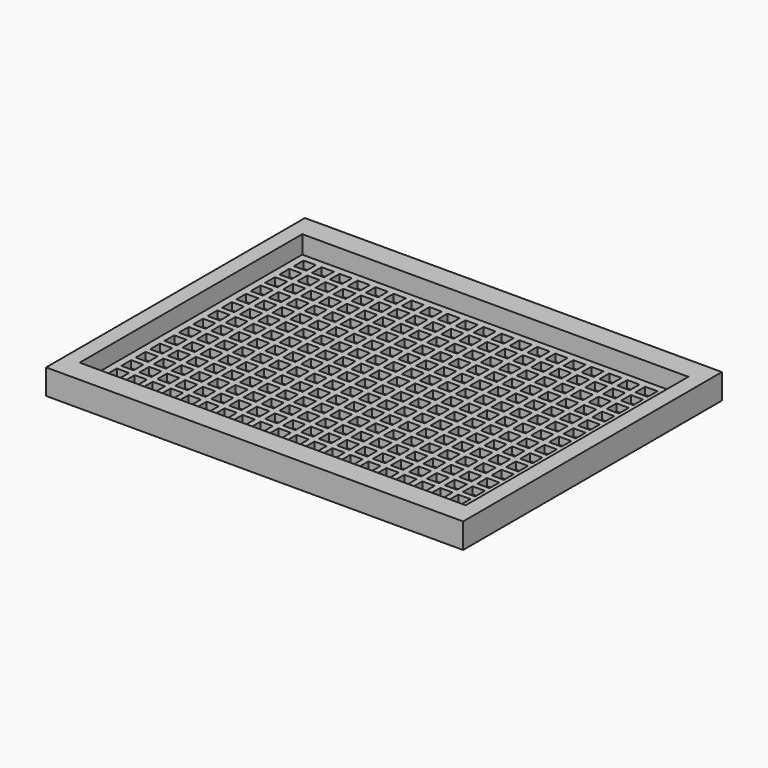
from build123d import *

# Parameters (mm, degrees)
F0_W     = 116
F0_H     = 90
F0_W_2   = 3.4
F0_H_2   = 3.4
F1_DEPTH = 2
F2_W     = 116
F2_H     = 90
F2_W_2   = 107.4
F2_H_2   = 77.4
F3_DEPTH = 5


with BuildPart() as f1:
    # F0 (on Top) → F1 (new body)
    with BuildSketch(Plane.XY):
        Rectangle(F0_W, F0_H)
        with Locations((-50, -35)):
            Rectangle(F0_W_2, F0_H_2, mode=Mode.SUBTRACT)
        with Locations((-45, -35)):
            Rectangle(F0_W_2, F0_H_2, mode=Mode.SUBTRACT)
        with Locations((-40, -35)):
            Rectangle(F0_W_2, F0_H_2, mode=Mode.SUBTRACT)
        with Locations((-35, -35)):
            Rectangle(F0_W_2, F0_H_2, mode=Mode.SUBTRACT)
        with Locations((-30, -35)):
            Rectangle(F0_W_2, F0_H_2, mode=Mode.SUBTRACT)
        with Locations((-50, -30)):
            Rectangle(F0_W_2, F0_H_2, mode=Mode.SUBTRACT)
        with Locations((-45, -30)):
            Rectangle(F0_W_2, F0_H_2, mode=Mode.SUBTRACT)
        with Locations((-50, -25)):
            Rectangle(F0_W_2, F0_H_2, mode=Mode.SUBTRACT)
        with Locations((-45, -25)):
            Rectangle(F0_W_2, F0_H_2, mode=Mode.SUBTRACT)
        with Locations((-40, -30)):
            Rectangle(F0_W_2, F0_H_2, mode=Mode.SUBTRACT)
        with Locations((-35, -30)):
            Rectangle(F0_W_2, F0_H_2, mode=Mode.SUBTRACT)
        with Locations((-30, -30)):
            Rectangle(F0_W_2, F0_H_2, mode=Mode.SUBTRACT)
        with Locations((-40, -25)):
            Rectangle(F0_W_2, F0_H_2, mode=Mode.SUBTRACT)
        with Locations((-35, -25)):
            Rectangle(F0_W_2, F0_H_2, mode=Mode.SUBTRACT)
        with Locations((-30, -25)):
            Rectangle(F0_W_2, F0_H_2, mode=Mode.SUBTRACT)
        with Locations((-25, -35)):
            Rectangle(F0_W_2, F0_H_2, mode=Mode.SUBTRACT)
        with Locations((-20, -35)):
            Rectangle(F0_W_2, F0_H_2, mode=Mode.SUBTRACT)
        with Locations((-15, -35)):
            Rectangle(F0_W_2, F0_H_2, mode=Mode.SUBTRACT)
        with Locations((-10, -35)):
            Rectangle(F0_W_2, F0_H_2, mode=Mode.SUBTRACT)
        with Locations((-5, -35)):
            Rectangle(F0_W_2, F0_H_2, mode=Mode.SUBTRACT)
        with Locations((-25, -30)):
            Rectangle(F0_W_2, F0_H_2, mode=Mode.SUBTRACT)
        with Locations((-20, -30)):
            Rectangle(F0_W_2, F0_H_2, mode=Mode.SUBTRACT)
        with Locations((-15, -30)):
            Rectangle(F0_W_2, F0_H_2, mode=Mode.SUBTRACT)
        with Locations((-25, -25)):
            Rectangle(F0_W_2, F0_H_2, mode=Mode.SUBTRACT)
        with Locations((-20, -25)):
            Rectangle(F0_W_2, F0_H_2, mode=Mode.SUBTRACT)
        with Locations((-15, -25)):
            Rectangle(F0_W_2, F0_H_2, mode=Mode.SUBTRACT)
        with Locations((-10, -30)):
            Rectangle(F0_W_2, F0_H_2, mode=Mode.SUBTRACT)
        with Locations((-5, -30)):
            Rectangle(F0_W_2, F0_H_2, mode=Mode.SUBTRACT)
        with Locations((-10, -25)):
            Rectangle(F0_W_2, F0_H_2, mode=Mode.SUBTRACT)
        with Locations((-5, -25)):
            Rectangle(F0_W_2, F0_H_2, mode=Mode.SUBTRACT)
        with Locations((-50, -20)):
            Rectangle(F0_W_2, F0_H_2, mode=Mode.SUBTRACT)
        with Locations((-45, -20)):
            Rectangle(F0_W_2, F0_H_2, mode=Mode.SUBTRACT)
        with Locations((-50, -15)):
            Rectangle(F0_W_2, F0_H_2, mode=Mode.SUBTRACT)
        with Locations((-45, -15)):
            Rectangle(F0_W_2, F0_H_2, mode=Mode.SUBTRACT)
        with Locations((-40, -20)):
            Rectangle(F0_W_2, F0_H_2, mode=Mode.SUBTRACT)
        with Locations((-35, -20)):
            Rectangle(F0_W_2, F0_H_2, mode=Mode.SUBTRACT)
        with Locations((-30, -20)):
            Rectangle(F0_W_2, F0_H_2, mode=Mode.SUBTRACT)
        with Locations((-40, -15)):
            Rectangle(F0_W_2, F0_H_2, mode=Mode.SUBTRACT)
        with Locations((-35, -15)):
            Rectangle(F0_W_2, F0_H_2, mode=Mode.SUBTRACT)
        with Locations((-30, -15)):
            Rectangle(F0_W_2, F0_H_2, mode=Mode.SUBTRACT)
        with Locations((-50, -10)):
            Rectangle(F0_W_2, F0_H_2, mode=Mode.SUBTRACT)
        with Locations((-45, -10)):
            Rectangle(F0_W_2, F0_H_2, mode=Mode.SUBTRACT)
        with Locations((-50, -5)):
            Rectangle(F0_W_2, F0_H_2, mode=Mode.SUBTRACT)
        with Locations((-45, -5)):
            Rectangle(F0_W_2, F0_H_2, mode=Mode.SUBTRACT)
        with Locations((-40, -10)):
            Rectangle(F0_W_2, F0_H_2, mode=Mode.SUBTRACT)
        with Locations((-35, -10)):
            Rectangle(F0_W_2, F0_H_2, mode=Mode.SUBTRACT)
        with Locations((-30, -10)):
            Rectangle(F0_W_2, F0_H_2, mode=Mode.SUBTRACT)
        with Locations((-40, -5)):
            Rectangle(F0_W_2, F0_H_2, mode=Mode.SUBTRACT)
        with Locations((-35, -5)):
            Rectangle(F0_W_2, F0_H_2, mode=Mode.SUBTRACT)
        with Locations((-30, -5)):
            Rectangle(F0_W_2, F0_H_2, mode=Mode.SUBTRACT)
        with Locations((-25, -20)):
            Rectangle(F0_W_2, F0_H_2, mode=Mode.SUBTRACT)
        with Locations((-20, -20)):
            Rectangle(F0_W_2, F0_H_2, mode=Mode.SUBTRACT)
        with Locations((-15, -20)):
            Rectangle(F0_W_2, F0_H_2, mode=Mode.SUBTRACT)
        with Locations((-25, -15)):
            Rectangle(F0_W_2, F0_H_2, mode=Mode.SUBTRACT)
        with Locations((-20, -15)):
            Rectangle(F0_W_2, F0_H_2, mode=Mode.SUBTRACT)
        with Locations((-15, -15)):
            Rectangle(F0_W_2, F0_H_2, mode=Mode.SUBTRACT)
        with Locations((-10, -20)):
            Rectangle(F0_W_2, F0_H_2, mode=Mode.SUBTRACT)
        with Locations((-5, -20)):
            Rectangle(F0_W_2, F0_H_2, mode=Mode.SUBTRACT)
        with Locations((-10, -15)):
            Rectangle(F0_W_2, F0_H_2, mode=Mode.SUBTRACT)
        with Locations((-5, -15)):
            Rectangle(F0_W_2, F0_H_2, mode=Mode.SUBTRACT)
        with Locations((-25, -10)):
            Rectangle(F0_W_2, F0_H_2, mode=Mode.SUBTRACT)
        with Locations((-20, -10)):
            Rectangle(F0_W_2, F0_H_2, mode=Mode.SUBTRACT)
        with Locations((-15, -10)):
            Rectangle(F0_W_2, F0_H_2, mode=Mode.SUBTRACT)
        with Locations((-25, -5)):
            Rectangle(F0_W_2, F0_H_2, mode=Mode.SUBTRACT)
        with Locations((-20, -5)):
            Rectangle(F0_W_2, F0_H_2, mode=Mode.SUBTRACT)
        with Locations((-15, -5)):
            Rectangle(F0_W_2, F0_H_2, mode=Mode.SUBTRACT)
        with Locations((-10, -10)):
            Rectangle(F0_W_2, F0_H_2, mode=Mode.SUBTRACT)
        with Locations((-5, -10)):
            Rectangle(F0_W_2, F0_H_2, mode=Mode.SUBTRACT)
        with Locations((-10, -5)):
            Rectangle(F0_W_2, F0_H_2, mode=Mode.SUBTRACT)
        with Locations((-5, -5)):
            Rectangle(F0_W_2, F0_H_2, mode=Mode.SUBTRACT)
        with Locations((0, -35)):
            Rectangle(F0_W_2, F0_H_2, mode=Mode.SUBTRACT)
        with Locations((5, -35)):
            Rectangle(F0_W_2, F0_H_2, mode=Mode.SUBTRACT)
        with Locations((10, -35)):
            Rectangle(F0_W_2, F0_H_2, mode=Mode.SUBTRACT)
        with Locations((15, -35)):
            Rectangle(F0_W_2, F0_H_2, mode=Mode.SUBTRACT)
        with Locations((20, -35)):
            Rectangle(F0_W_2, F0_H_2, mode=Mode.SUBTRACT)
        with Locations((25, -35)):
            Rectangle(F0_W_2, F0_H_2, mode=Mode.SUBTRACT)
        with Locations((0, -30)):
            Rectangle(F0_W_2, F0_H_2, mode=Mode.SUBTRACT)
        with Locations((5, -30)):
            Rectangle(F0_W_2, F0_H_2, mode=Mode.SUBTRACT)
        with Locations((10, -30)):
            Rectangle(F0_W_2, F0_H_2, mode=Mode.SUBTRACT)
        with Locations((0, -25)):
            Rectangle(F0_W_2, F0_H_2, mode=Mode.SUBTRACT)
        with Locations((5, -25)):
            Rectangle(F0_W_2, F0_H_2, mode=Mode.SUBTRACT)
        with Locations((10, -25)):
            Rectangle(F0_W_2, F0_H_2, mode=Mode.SUBTRACT)
        with Locations((15, -30)):
            Rectangle(F0_W_2, F0_H_2, mode=Mode.SUBTRACT)
        with Locations((20, -30)):
            Rectangle(F0_W_2, F0_H_2, mode=Mode.SUBTRACT)
        with Locations((25, -30)):
            Rectangle(F0_W_2, F0_H_2, mode=Mode.SUBTRACT)
        with Locations((15, -25)):
            Rectangle(F0_W_2, F0_H_2, mode=Mode.SUBTRACT)
        with Locations((20, -25)):
            Rectangle(F0_W_2, F0_H_2, mode=Mode.SUBTRACT)
        with Locations((25, -25)):
            Rectangle(F0_W_2, F0_H_2, mode=Mode.SUBTRACT)
        with Locations((30, -35)):
            Rectangle(F0_W_2, F0_H_2, mode=Mode.SUBTRACT)
        with Locations((35, -35)):
            Rectangle(F0_W_2, F0_H_2, mode=Mode.SUBTRACT)
        with Locations((40, -35)):
            Rectangle(F0_W_2, F0_H_2, mode=Mode.SUBTRACT)
        with Locations((45, -35)):
            Rectangle(F0_W_2, F0_H_2, mode=Mode.SUBTRACT)
        with Locations((50, -35)):
            Rectangle(F0_W_2, F0_H_2, mode=Mode.SUBTRACT)
        with Locations((30, -30)):
            Rectangle(F0_W_2, F0_H_2, mode=Mode.SUBTRACT)
        with Locations((35, -30)):
            Rectangle(F0_W_2, F0_H_2, mode=Mode.SUBTRACT)
        with Locations((40, -30)):
            Rectangle(F0_W_2, F0_H_2, mode=Mode.SUBTRACT)
        with Locations((30, -25)):
            Rectangle(F0_W_2, F0_H_2, mode=Mode.SUBTRACT)
        with Locations((35, -25)):
            Rectangle(F0_W_2, F0_H_2, mode=Mode.SUBTRACT)
        with Locations((40, -25)):
            Rectangle(F0_W_2, F0_H_2, mode=Mode.SUBTRACT)
        with Locations((45, -30)):
            Rectangle(F0_W_2, F0_H_2, mode=Mode.SUBTRACT)
        with Locations((50, -30)):
            Rectangle(F0_W_2, F0_H_2, mode=Mode.SUBTRACT)
        with Locations((45, -25)):
            Rectangle(F0_W_2, F0_H_2, mode=Mode.SUBTRACT)
        with Locations((50, -25)):
            Rectangle(F0_W_2, F0_H_2, mode=Mode.SUBTRACT)
        with Locations((0, -20)):
            Rectangle(F0_W_2, F0_H_2, mode=Mode.SUBTRACT)
        with Locations((5, -20)):
            Rectangle(F0_W_2, F0_H_2, mode=Mode.SUBTRACT)
        with Locations((10, -20)):
            Rectangle(F0_W_2, F0_H_2, mode=Mode.SUBTRACT)
        with Locations((0, -15)):
            Rectangle(F0_W_2, F0_H_2, mode=Mode.SUBTRACT)
        with Locations((5, -15)):
            Rectangle(F0_W_2, F0_H_2, mode=Mode.SUBTRACT)
        with Locations((10, -15)):
            Rectangle(F0_W_2, F0_H_2, mode=Mode.SUBTRACT)
        with Locations((15, -20)):
            Rectangle(F0_W_2, F0_H_2, mode=Mode.SUBTRACT)
        with Locations((20, -20)):
            Rectangle(F0_W_2, F0_H_2, mode=Mode.SUBTRACT)
        with Locations((25, -20)):
            Rectangle(F0_W_2, F0_H_2, mode=Mode.SUBTRACT)
        with Locations((15, -15)):
            Rectangle(F0_W_2, F0_H_2, mode=Mode.SUBTRACT)
        with Locations((20, -15)):
            Rectangle(F0_W_2, F0_H_2, mode=Mode.SUBTRACT)
        with Locations((25, -15)):
            Rectangle(F0_W_2, F0_H_2, mode=Mode.SUBTRACT)
        with Locations((0, -10)):
            Rectangle(F0_W_2, F0_H_2, mode=Mode.SUBTRACT)
        with Locations((5, -10)):
            Rectangle(F0_W_2, F0_H_2, mode=Mode.SUBTRACT)
        with Locations((10, -10)):
            Rectangle(F0_W_2, F0_H_2, mode=Mode.SUBTRACT)
        with Locations((0, -5)):
            Rectangle(F0_W_2, F0_H_2, mode=Mode.SUBTRACT)
        with Locations((5, -5)):
            Rectangle(F0_W_2, F0_H_2, mode=Mode.SUBTRACT)
        with Locations((10, -5)):
            Rectangle(F0_W_2, F0_H_2, mode=Mode.SUBTRACT)
        with Locations((15, -10)):
            Rectangle(F0_W_2, F0_H_2, mode=Mode.SUBTRACT)
        with Locations((20, -10)):
            Rectangle(F0_W_2, F0_H_2, mode=Mode.SUBTRACT)
        with Locations((25, -10)):
            Rectangle(F0_W_2, F0_H_2, mode=Mode.SUBTRACT)
        with Locations((15, -5)):
            Rectangle(F0_W_2, F0_H_2, mode=Mode.SUBTRACT)
        with Locations((20, -5)):
            Rectangle(F0_W_2, F0_H_2, mode=Mode.SUBTRACT)
        with Locations((25, -5)):
            Rectangle(F0_W_2, F0_H_2, mode=Mode.SUBTRACT)
        with Locations((30, -20)):
            Rectangle(F0_W_2, F0_H_2, mode=Mode.SUBTRACT)
        with Locations((35, -20)):
            Rectangle(F0_W_2, F0_H_2, mode=Mode.SUBTRACT)
        with Locations((40, -20)):
            Rectangle(F0_W_2, F0_H_2, mode=Mode.SUBTRACT)
        with Locations((30, -15)):
            Rectangle(F0_W_2, F0_H_2, mode=Mode.SUBTRACT)
        with Locations((35, -15)):
            Rectangle(F0_W_2, F0_H_2, mode=Mode.SUBTRACT)
        with Locations((40, -15)):
            Rectangle(F0_W_2, F0_H_2, mode=Mode.SUBTRACT)
        with Locations((45, -20)):
            Rectangle(F0_W_2, F0_H_2, mode=Mode.SUBTRACT)
        with Locations((50, -20)):
            Rectangle(F0_W_2, F0_H_2, mode=Mode.SUBTRACT)
        with Locations((45, -15)):
            Rectangle(F0_W_2, F0_H_2, mode=Mode.SUBTRACT)
        with Locations((50, -15)):
            Rectangle(F0_W_2, F0_H_2, mode=Mode.SUBTRACT)
        with Locations((30, -10)):
            Rectangle(F0_W_2, F0_H_2, mode=Mode.SUBTRACT)
        with Locations((35, -10)):
            Rectangle(F0_W_2, F0_H_2, mode=Mode.SUBTRACT)
        with Locations((40, -10)):
            Rectangle(F0_W_2, F0_H_2, mode=Mode.SUBTRACT)
        with Locations((30, -5)):
            Rectangle(F0_W_2, F0_H_2, mode=Mode.SUBTRACT)
        with Locations((35, -5)):
            Rectangle(F0_W_2, F0_H_2, mode=Mode.SUBTRACT)
        with Locations((40, -5)):
            Rectangle(F0_W_2, F0_H_2, mode=Mode.SUBTRACT)
        with Locations((45, -10)):
            Rectangle(F0_W_2, F0_H_2, mode=Mode.SUBTRACT)
        with Locations((50, -10)):
            Rectangle(F0_W_2, F0_H_2, mode=Mode.SUBTRACT)
        with Locations((45, -5)):
            Rectangle(F0_W_2, F0_H_2, mode=Mode.SUBTRACT)
        with Locations((50, -5)):
            Rectangle(F0_W_2, F0_H_2, mode=Mode.SUBTRACT)
        with Locations((-50, 0)):
            Rectangle(F0_W_2, F0_H_2, mode=Mode.SUBTRACT)
        with Locations((-45, 0)):
            Rectangle(F0_W_2, F0_H_2, mode=Mode.SUBTRACT)
        with Locations((-50, 5)):
            Rectangle(F0_W_2, F0_H_2, mode=Mode.SUBTRACT)
        with Locations((-45, 5)):
            Rectangle(F0_W_2, F0_H_2, mode=Mode.SUBTRACT)
        with Locations((-50, 10)):
            Rectangle(F0_W_2, F0_H_2, mode=Mode.SUBTRACT)
        with Locations((-45, 10)):
            Rectangle(F0_W_2, F0_H_2, mode=Mode.SUBTRACT)
        with Locations((-40, 0)):
            Rectangle(F0_W_2, F0_H_2, mode=Mode.SUBTRACT)
        with Locations((-40, 5)):
            Rectangle(F0_W_2, F0_H_2, mode=Mode.SUBTRACT)
        with Locations((-35, 0)):
            Rectangle(F0_W_2, F0_H_2, mode=Mode.SUBTRACT)
        with Locations((-30, 0)):
            Rectangle(F0_W_2, F0_H_2, mode=Mode.SUBTRACT)
        with Locations((-35, 5)):
            Rectangle(F0_W_2, F0_H_2, mode=Mode.SUBTRACT)
        with Locations((-30, 5)):
            Rectangle(F0_W_2, F0_H_2, mode=Mode.SUBTRACT)
        with Locations((-40, 10)):
            Rectangle(F0_W_2, F0_H_2, mode=Mode.SUBTRACT)
        with Locations((-35, 10)):
            Rectangle(F0_W_2, F0_H_2, mode=Mode.SUBTRACT)
        with Locations((-30, 10)):
            Rectangle(F0_W_2, F0_H_2, mode=Mode.SUBTRACT)
        with Locations((-50, 15)):
            Rectangle(F0_W_2, F0_H_2, mode=Mode.SUBTRACT)
        with Locations((-45, 15)):
            Rectangle(F0_W_2, F0_H_2, mode=Mode.SUBTRACT)
        with Locations((-50, 20)):
            Rectangle(F0_W_2, F0_H_2, mode=Mode.SUBTRACT)
        with Locations((-45, 20)):
            Rectangle(F0_W_2, F0_H_2, mode=Mode.SUBTRACT)
        with Locations((-40, 15)):
            Rectangle(F0_W_2, F0_H_2, mode=Mode.SUBTRACT)
        with Locations((-35, 15)):
            Rectangle(F0_W_2, F0_H_2, mode=Mode.SUBTRACT)
        with Locations((-30, 15)):
            Rectangle(F0_W_2, F0_H_2, mode=Mode.SUBTRACT)
        with Locations((-40, 20)):
            Rectangle(F0_W_2, F0_H_2, mode=Mode.SUBTRACT)
        with Locations((-35, 20)):
            Rectangle(F0_W_2, F0_H_2, mode=Mode.SUBTRACT)
        with Locations((-30, 20)):
            Rectangle(F0_W_2, F0_H_2, mode=Mode.SUBTRACT)
        with Locations((-25, 0)):
            Rectangle(F0_W_2, F0_H_2, mode=Mode.SUBTRACT)
        with Locations((-25, 5)):
            Rectangle(F0_W_2, F0_H_2, mode=Mode.SUBTRACT)
        with Locations((-20, 0)):
            Rectangle(F0_W_2, F0_H_2, mode=Mode.SUBTRACT)
        with Locations((-15, 0)):
            Rectangle(F0_W_2, F0_H_2, mode=Mode.SUBTRACT)
        with Locations((-20, 5)):
            Rectangle(F0_W_2, F0_H_2, mode=Mode.SUBTRACT)
        with Locations((-15, 5)):
            Rectangle(F0_W_2, F0_H_2, mode=Mode.SUBTRACT)
        with Locations((-25, 10)):
            Rectangle(F0_W_2, F0_H_2, mode=Mode.SUBTRACT)
        with Locations((-20, 10)):
            Rectangle(F0_W_2, F0_H_2, mode=Mode.SUBTRACT)
        with Locations((-15, 10)):
            Rectangle(F0_W_2, F0_H_2, mode=Mode.SUBTRACT)
        with Locations((-10, 0)):
            Rectangle(F0_W_2, F0_H_2, mode=Mode.SUBTRACT)
        with Locations((-10, 5)):
            Rectangle(F0_W_2, F0_H_2, mode=Mode.SUBTRACT)
        with Locations((-5, 0)):
            Rectangle(F0_W_2, F0_H_2, mode=Mode.SUBTRACT)
        with Locations((-5, 5)):
            Rectangle(F0_W_2, F0_H_2, mode=Mode.SUBTRACT)
        with Locations((-10, 10)):
            Rectangle(F0_W_2, F0_H_2, mode=Mode.SUBTRACT)
        with Locations((-5, 10)):
            Rectangle(F0_W_2, F0_H_2, mode=Mode.SUBTRACT)
        with Locations((-25, 15)):
            Rectangle(F0_W_2, F0_H_2, mode=Mode.SUBTRACT)
        with Locations((-20, 15)):
            Rectangle(F0_W_2, F0_H_2, mode=Mode.SUBTRACT)
        with Locations((-15, 15)):
            Rectangle(F0_W_2, F0_H_2, mode=Mode.SUBTRACT)
        with Locations((-25, 20)):
            Rectangle(F0_W_2, F0_H_2, mode=Mode.SUBTRACT)
        with Locations((-20, 20)):
            Rectangle(F0_W_2, F0_H_2, mode=Mode.SUBTRACT)
        with Locations((-15, 20)):
            Rectangle(F0_W_2, F0_H_2, mode=Mode.SUBTRACT)
        with Locations((-10, 15)):
            Rectangle(F0_W_2, F0_H_2, mode=Mode.SUBTRACT)
        with Locations((-5, 15)):
            Rectangle(F0_W_2, F0_H_2, mode=Mode.SUBTRACT)
        with Locations((-10, 20)):
            Rectangle(F0_W_2, F0_H_2, mode=Mode.SUBTRACT)
        with Locations((-5, 20)):
            Rectangle(F0_W_2, F0_H_2, mode=Mode.SUBTRACT)
        with Locations((-50, 25)):
            Rectangle(F0_W_2, F0_H_2, mode=Mode.SUBTRACT)
        with Locations((-45, 25)):
            Rectangle(F0_W_2, F0_H_2, mode=Mode.SUBTRACT)
        with Locations((-50, 30)):
            Rectangle(F0_W_2, F0_H_2, mode=Mode.SUBTRACT)
        with Locations((-45, 30)):
            Rectangle(F0_W_2, F0_H_2, mode=Mode.SUBTRACT)
        with Locations((-40, 25)):
            Rectangle(F0_W_2, F0_H_2, mode=Mode.SUBTRACT)
        with Locations((-35, 25)):
            Rectangle(F0_W_2, F0_H_2, mode=Mode.SUBTRACT)
        with Locations((-30, 25)):
            Rectangle(F0_W_2, F0_H_2, mode=Mode.SUBTRACT)
        with Locations((-40, 30)):
            Rectangle(F0_W_2, F0_H_2, mode=Mode.SUBTRACT)
        with Locations((-35, 30)):
            Rectangle(F0_W_2, F0_H_2, mode=Mode.SUBTRACT)
        with Locations((-30, 30)):
            Rectangle(F0_W_2, F0_H_2, mode=Mode.SUBTRACT)
        with Locations((-50, 35)):
            Rectangle(F0_W_2, F0_H_2, mode=Mode.SUBTRACT)
        with Locations((-45, 35)):
            Rectangle(F0_W_2, F0_H_2, mode=Mode.SUBTRACT)
        with Locations((-40, 35)):
            Rectangle(F0_W_2, F0_H_2, mode=Mode.SUBTRACT)
        with Locations((-35, 35)):
            Rectangle(F0_W_2, F0_H_2, mode=Mode.SUBTRACT)
        with Locations((-30, 35)):
            Rectangle(F0_W_2, F0_H_2, mode=Mode.SUBTRACT)
        with Locations((-25, 25)):
            Rectangle(F0_W_2, F0_H_2, mode=Mode.SUBTRACT)
        with Locations((-20, 25)):
            Rectangle(F0_W_2, F0_H_2, mode=Mode.SUBTRACT)
        with Locations((-15, 25)):
            Rectangle(F0_W_2, F0_H_2, mode=Mode.SUBTRACT)
        with Locations((-25, 30)):
            Rectangle(F0_W_2, F0_H_2, mode=Mode.SUBTRACT)
        with Locations((-20, 30)):
            Rectangle(F0_W_2, F0_H_2, mode=Mode.SUBTRACT)
        with Locations((-15, 30)):
            Rectangle(F0_W_2, F0_H_2, mode=Mode.SUBTRACT)
        with Locations((-10, 25)):
            Rectangle(F0_W_2, F0_H_2, mode=Mode.SUBTRACT)
        with Locations((-5, 25)):
            Rectangle(F0_W_2, F0_H_2, mode=Mode.SUBTRACT)
        with Locations((-10, 30)):
            Rectangle(F0_W_2, F0_H_2, mode=Mode.SUBTRACT)
        with Locations((-5, 30)):
            Rectangle(F0_W_2, F0_H_2, mode=Mode.SUBTRACT)
        with Locations((-25, 35)):
            Rectangle(F0_W_2, F0_H_2, mode=Mode.SUBTRACT)
        with Locations((-20, 35)):
            Rectangle(F0_W_2, F0_H_2, mode=Mode.SUBTRACT)
        with Locations((-15, 35)):
            Rectangle(F0_W_2, F0_H_2, mode=Mode.SUBTRACT)
        with Locations((-10, 35)):
            Rectangle(F0_W_2, F0_H_2, mode=Mode.SUBTRACT)
        with Locations((-5, 35)):
            Rectangle(F0_W_2, F0_H_2, mode=Mode.SUBTRACT)
        Rectangle(F0_W_2, F0_H_2, mode=Mode.SUBTRACT)
        with Locations((5, 0)):
            Rectangle(F0_W_2, F0_H_2, mode=Mode.SUBTRACT)
        with Locations((0, 5)):
            Rectangle(F0_W_2, F0_H_2, mode=Mode.SUBTRACT)
        with Locations((5, 5)):
            Rectangle(F0_W_2, F0_H_2, mode=Mode.SUBTRACT)
        with Locations((10, 0)):
            Rectangle(F0_W_2, F0_H_2, mode=Mode.SUBTRACT)
        with Locations((10, 5)):
            Rectangle(F0_W_2, F0_H_2, mode=Mode.SUBTRACT)
        with Locations((0, 10)):
            Rectangle(F0_W_2, F0_H_2, mode=Mode.SUBTRACT)
        with Locations((5, 10)):
            Rectangle(F0_W_2, F0_H_2, mode=Mode.SUBTRACT)
        with Locations((10, 10)):
            Rectangle(F0_W_2, F0_H_2, mode=Mode.SUBTRACT)
        with Locations((15, 0)):
            Rectangle(F0_W_2, F0_H_2, mode=Mode.SUBTRACT)
        with Locations((20, 0)):
            Rectangle(F0_W_2, F0_H_2, mode=Mode.SUBTRACT)
        with Locations((15, 5)):
            Rectangle(F0_W_2, F0_H_2, mode=Mode.SUBTRACT)
        with Locations((20, 5)):
            Rectangle(F0_W_2, F0_H_2, mode=Mode.SUBTRACT)
        with Locations((25, 0)):
            Rectangle(F0_W_2, F0_H_2, mode=Mode.SUBTRACT)
        with Locations((25, 5)):
            Rectangle(F0_W_2, F0_H_2, mode=Mode.SUBTRACT)
        with Locations((15, 10)):
            Rectangle(F0_W_2, F0_H_2, mode=Mode.SUBTRACT)
        with Locations((20, 10)):
            Rectangle(F0_W_2, F0_H_2, mode=Mode.SUBTRACT)
        with Locations((25, 10)):
            Rectangle(F0_W_2, F0_H_2, mode=Mode.SUBTRACT)
        with Locations((0, 15)):
            Rectangle(F0_W_2, F0_H_2, mode=Mode.SUBTRACT)
        with Locations((5, 15)):
            Rectangle(F0_W_2, F0_H_2, mode=Mode.SUBTRACT)
        with Locations((10, 15)):
            Rectangle(F0_W_2, F0_H_2, mode=Mode.SUBTRACT)
        with Locations((0, 20)):
            Rectangle(F0_W_2, F0_H_2, mode=Mode.SUBTRACT)
        with Locations((5, 20)):
            Rectangle(F0_W_2, F0_H_2, mode=Mode.SUBTRACT)
        with Locations((10, 20)):
            Rectangle(F0_W_2, F0_H_2, mode=Mode.SUBTRACT)
        with Locations((15, 15)):
            Rectangle(F0_W_2, F0_H_2, mode=Mode.SUBTRACT)
        with Locations((20, 15)):
            Rectangle(F0_W_2, F0_H_2, mode=Mode.SUBTRACT)
        with Locations((25, 15)):
            Rectangle(F0_W_2, F0_H_2, mode=Mode.SUBTRACT)
        with Locations((15, 20)):
            Rectangle(F0_W_2, F0_H_2, mode=Mode.SUBTRACT)
        with Locations((20, 20)):
            Rectangle(F0_W_2, F0_H_2, mode=Mode.SUBTRACT)
        with Locations((25, 20)):
            Rectangle(F0_W_2, F0_H_2, mode=Mode.SUBTRACT)
        with Locations((30, 0)):
            Rectangle(F0_W_2, F0_H_2, mode=Mode.SUBTRACT)
        with Locations((35, 0)):
            Rectangle(F0_W_2, F0_H_2, mode=Mode.SUBTRACT)
        with Locations((30, 5)):
            Rectangle(F0_W_2, F0_H_2, mode=Mode.SUBTRACT)
        with Locations((35, 5)):
            Rectangle(F0_W_2, F0_H_2, mode=Mode.SUBTRACT)
        with Locations((40, 0)):
            Rectangle(F0_W_2, F0_H_2, mode=Mode.SUBTRACT)
        with Locations((40, 5)):
            Rectangle(F0_W_2, F0_H_2, mode=Mode.SUBTRACT)
        with Locations((30, 10)):
            Rectangle(F0_W_2, F0_H_2, mode=Mode.SUBTRACT)
        with Locations((35, 10)):
            Rectangle(F0_W_2, F0_H_2, mode=Mode.SUBTRACT)
        with Locations((40, 10)):
            Rectangle(F0_W_2, F0_H_2, mode=Mode.SUBTRACT)
        with Locations((45, 0)):
            Rectangle(F0_W_2, F0_H_2, mode=Mode.SUBTRACT)
        with Locations((50, 0)):
            Rectangle(F0_W_2, F0_H_2, mode=Mode.SUBTRACT)
        with Locations((45, 5)):
            Rectangle(F0_W_2, F0_H_2, mode=Mode.SUBTRACT)
        with Locations((50, 5)):
            Rectangle(F0_W_2, F0_H_2, mode=Mode.SUBTRACT)
        with Locations((45, 10)):
            Rectangle(F0_W_2, F0_H_2, mode=Mode.SUBTRACT)
        with Locations((50, 10)):
            Rectangle(F0_W_2, F0_H_2, mode=Mode.SUBTRACT)
        with Locations((30, 15)):
            Rectangle(F0_W_2, F0_H_2, mode=Mode.SUBTRACT)
        with Locations((35, 15)):
            Rectangle(F0_W_2, F0_H_2, mode=Mode.SUBTRACT)
        with Locations((40, 15)):
            Rectangle(F0_W_2, F0_H_2, mode=Mode.SUBTRACT)
        with Locations((30, 20)):
            Rectangle(F0_W_2, F0_H_2, mode=Mode.SUBTRACT)
        with Locations((35, 20)):
            Rectangle(F0_W_2, F0_H_2, mode=Mode.SUBTRACT)
        with Locations((40, 20)):
            Rectangle(F0_W_2, F0_H_2, mode=Mode.SUBTRACT)
        with Locations((45, 15)):
            Rectangle(F0_W_2, F0_H_2, mode=Mode.SUBTRACT)
        with Locations((50, 15)):
            Rectangle(F0_W_2, F0_H_2, mode=Mode.SUBTRACT)
        with Locations((45, 20)):
            Rectangle(F0_W_2, F0_H_2, mode=Mode.SUBTRACT)
        with Locations((50, 20)):
            Rectangle(F0_W_2, F0_H_2, mode=Mode.SUBTRACT)
        with Locations((0, 25)):
            Rectangle(F0_W_2, F0_H_2, mode=Mode.SUBTRACT)
        with Locations((5, 25)):
            Rectangle(F0_W_2, F0_H_2, mode=Mode.SUBTRACT)
        with Locations((10, 25)):
            Rectangle(F0_W_2, F0_H_2, mode=Mode.SUBTRACT)
        with Locations((0, 30)):
            Rectangle(F0_W_2, F0_H_2, mode=Mode.SUBTRACT)
        with Locations((5, 30)):
            Rectangle(F0_W_2, F0_H_2, mode=Mode.SUBTRACT)
        with Locations((10, 30)):
            Rectangle(F0_W_2, F0_H_2, mode=Mode.SUBTRACT)
        with Locations((15, 25)):
            Rectangle(F0_W_2, F0_H_2, mode=Mode.SUBTRACT)
        with Locations((20, 25)):
            Rectangle(F0_W_2, F0_H_2, mode=Mode.SUBTRACT)
        with Locations((25, 25)):
            Rectangle(F0_W_2, F0_H_2, mode=Mode.SUBTRACT)
        with Locations((15, 30)):
            Rectangle(F0_W_2, F0_H_2, mode=Mode.SUBTRACT)
        with Locations((20, 30)):
            Rectangle(F0_W_2, F0_H_2, mode=Mode.SUBTRACT)
        with Locations((25, 30)):
            Rectangle(F0_W_2, F0_H_2, mode=Mode.SUBTRACT)
        with Locations((0, 35)):
            Rectangle(F0_W_2, F0_H_2, mode=Mode.SUBTRACT)
        with Locations((5, 35)):
            Rectangle(F0_W_2, F0_H_2, mode=Mode.SUBTRACT)
        with Locations((10, 35)):
            Rectangle(F0_W_2, F0_H_2, mode=Mode.SUBTRACT)
        with Locations((15, 35)):
            Rectangle(F0_W_2, F0_H_2, mode=Mode.SUBTRACT)
        with Locations((20, 35)):
            Rectangle(F0_W_2, F0_H_2, mode=Mode.SUBTRACT)
        with Locations((25, 35)):
            Rectangle(F0_W_2, F0_H_2, mode=Mode.SUBTRACT)
        with Locations((30, 25)):
            Rectangle(F0_W_2, F0_H_2, mode=Mode.SUBTRACT)
        with Locations((35, 25)):
            Rectangle(F0_W_2, F0_H_2, mode=Mode.SUBTRACT)
        with Locations((40, 25)):
            Rectangle(F0_W_2, F0_H_2, mode=Mode.SUBTRACT)
        with Locations((30, 30)):
            Rectangle(F0_W_2, F0_H_2, mode=Mode.SUBTRACT)
        with Locations((35, 30)):
            Rectangle(F0_W_2, F0_H_2, mode=Mode.SUBTRACT)
        with Locations((40, 30)):
            Rectangle(F0_W_2, F0_H_2, mode=Mode.SUBTRACT)
        with Locations((45, 25)):
            Rectangle(F0_W_2, F0_H_2, mode=Mode.SUBTRACT)
        with Locations((50, 25)):
            Rectangle(F0_W_2, F0_H_2, mode=Mode.SUBTRACT)
        with Locations((45, 30)):
            Rectangle(F0_W_2, F0_H_2, mode=Mode.SUBTRACT)
        with Locations((50, 30)):
            Rectangle(F0_W_2, F0_H_2, mode=Mode.SUBTRACT)
        with Locations((30, 35)):
            Rectangle(F0_W_2, F0_H_2, mode=Mode.SUBTRACT)
        with Locations((35, 35)):
            Rectangle(F0_W_2, F0_H_2, mode=Mode.SUBTRACT)
        with Locations((40, 35)):
            Rectangle(F0_W_2, F0_H_2, mode=Mode.SUBTRACT)
        with Locations((45, 35)):
            Rectangle(F0_W_2, F0_H_2, mode=Mode.SUBTRACT)
        with Locations((50, 35)):
            Rectangle(F0_W_2, F0_H_2, mode=Mode.SUBTRACT)
    extrude(amount=F1_DEPTH)

    # F2 (on face) → F3 (join)
    with BuildSketch(Plane.XY.offset(2)):
        Rectangle(F2_W, F2_H)
        Rectangle(F2_W_2, F2_H_2, mode=Mode.SUBTRACT)
    extrude(amount=F3_DEPTH)


solid = f1.part
